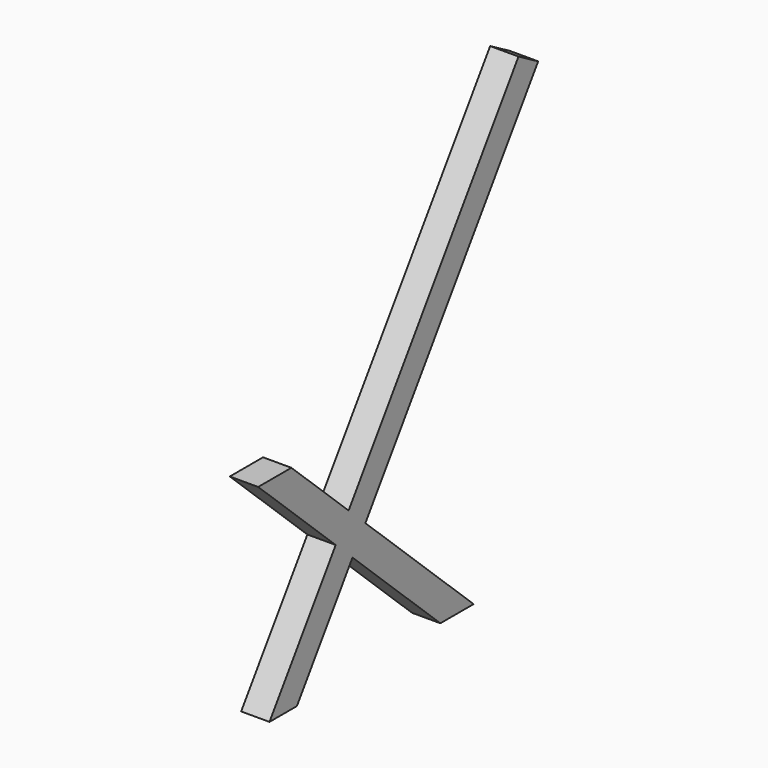
from build123d import *

# Parameters (mm, degrees)
F1_DEPTH = 30


with BuildPart() as f1:
    # F0 (on Right) → F1 (new body, symmetric)
    with BuildSketch(Plane.YZ):
        Polygon((-82.071455, 0), (-170, 0), (35.183324, -191.532801), (-140, -450), (-67.517052, -450), (79.578226, -232.97418), (312.071455, -450), (400, -450), (113.651634, -182.701939), (570.839287, 491.837221), (518.75082, 521.927439), (69.256731, -141.26056), align=None)
    extrude(amount=F1_DEPTH, both=True)


solid = f1.part
